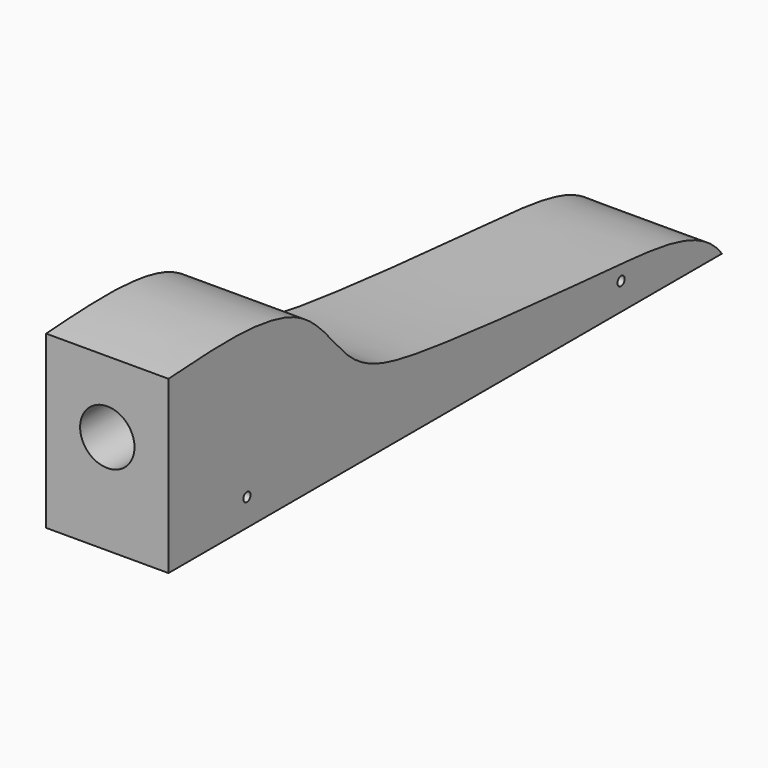
from build123d import *

# Parameters (mm, degrees)
F1_DEPTH = 21.43125
F2_R     = 9.525
F3_DEPTH = 50.8
F4_R     = 1.5875
F5_DEPTH = 42.8635


with BuildPart() as f1:
    # F0 (on Right) → F1 (new body, symmetric)
    with BuildSketch(Plane.YZ):
        Polygon((-152.4, 69.85), (-152.4, 0), (152.4, 0), (152.4, 19.05), align=None)
    extrude(amount=F1_DEPTH, both=True)

    # F2 (on face) → F3 (cut)
    with BuildSketch(Plane.XZ.offset(152.4)):
        with Locations((0, 34.925)):
            Circle(F2_R)
    extrude(amount=-F3_DEPTH, mode=Mode.SUBTRACT)

    # F4 (on face) → F5 (intersect, through all)
    with BuildSketch(Plane.YZ.offset(21.43125)):
        with BuildLine():
            add(Edge.make_bspline(
                [(-152.4, 59.8916597664), (-130.9144296082, 61.2657508415), (-92.3976667916, 63.8561474475), (-73.8563754206, 29.0422208261), (-37.9533960618, 21.5511524571), (41.586464074, 15.0183648964), (80.9038296317, 11.9636732436), (89.8114517331, 0)],
                knots=[0, 0, 0, 0, 0.1938043349, 0.3388534363, 0.4887234603, 0.7216195473, 0.9008792926, 0.9008792926, 0.9008792926, 0.9008792926], degree=3))
            Line((-152.4, 59.8916597664), (-152.4, 0))
            Line((-152.4, 0), (89.8114517331, 0))
        make_face()
        with Locations((-118.0625930429, 9.525)):
            Circle(F4_R, mode=Mode.SUBTRACT)
        with Locations((45.6703007221, 9.525)):
            Circle(F4_R, mode=Mode.SUBTRACT)
    extrude(amount=-F5_DEPTH, mode=Mode.INTERSECT)


solid = f1.part
